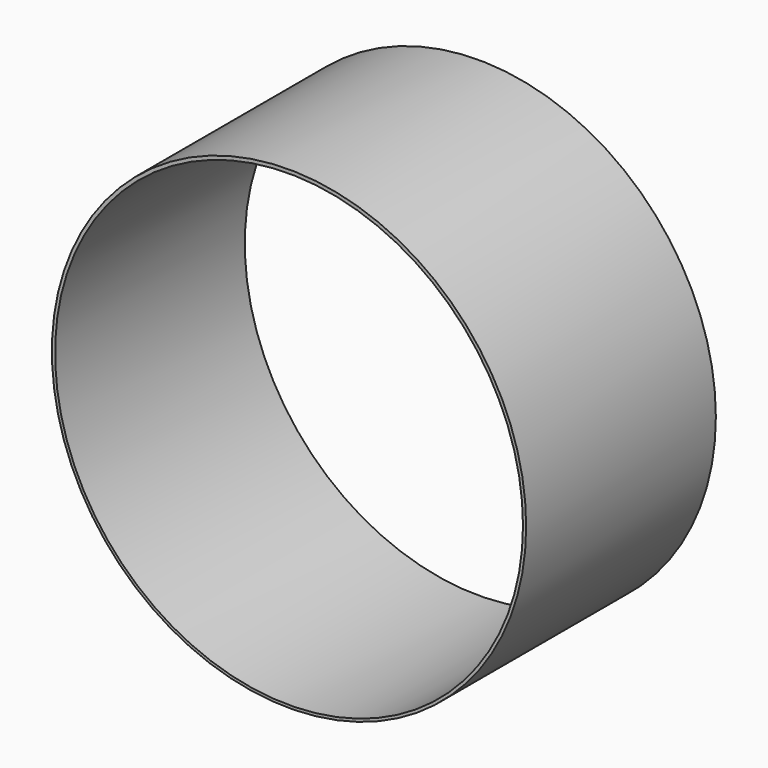
from build123d import *

# Parameters (mm, degrees)
F0_R     = 150
F0_R_2   = 148
F1_DEPTH = 150


with BuildPart() as f1:
    # F0 (on Front) → F1 (new body)
    with BuildSketch(Plane.XZ):
        Circle(F0_R)
        with Locations((0, -0.299859)):
            Circle(F0_R_2, mode=Mode.SUBTRACT)
        Circle(F0_R)
        with Locations((0, -0.299859)):
            Circle(F0_R_2, mode=Mode.SUBTRACT)
    extrude(amount=F1_DEPTH)


solid = f1.part
